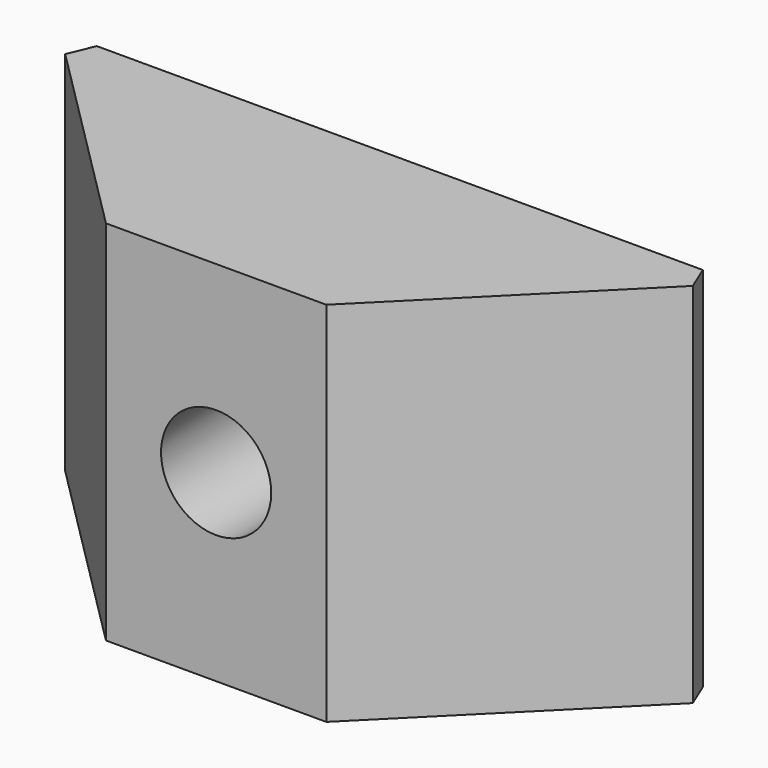
from build123d import *

# Parameters (mm, degrees)
F1_DEPTH = 12.7
F2_R     = 3.81
F3_DEPTH = 15.876
F4_SIZE  = 2.54


with BuildPart() as f1:
    # F0 (on Top) → F1 (new body, symmetric)
    with BuildSketch(Plane.XY):
        Polygon((-23.495, 15.875), (-7.62, 0), (7.62, 0), (23.495, 15.875), align=None)
    extrude(amount=F1_DEPTH, both=True)

    # F2 (on Front) → F3 (cut, through all)
    with BuildSketch(Plane.XZ):
        Circle(F2_R)
    extrude(amount=-F3_DEPTH, mode=Mode.SUBTRACT)

    # F4
    f4_edges = [f1.edges().sort_by_distance(p)[0] for p in [
        (-23.495, 15.875, 0),
        (23.495, 15.875, 0),
    ]]
    chamfer(f4_edges, length=F4_SIZE)


solid = f1.part
